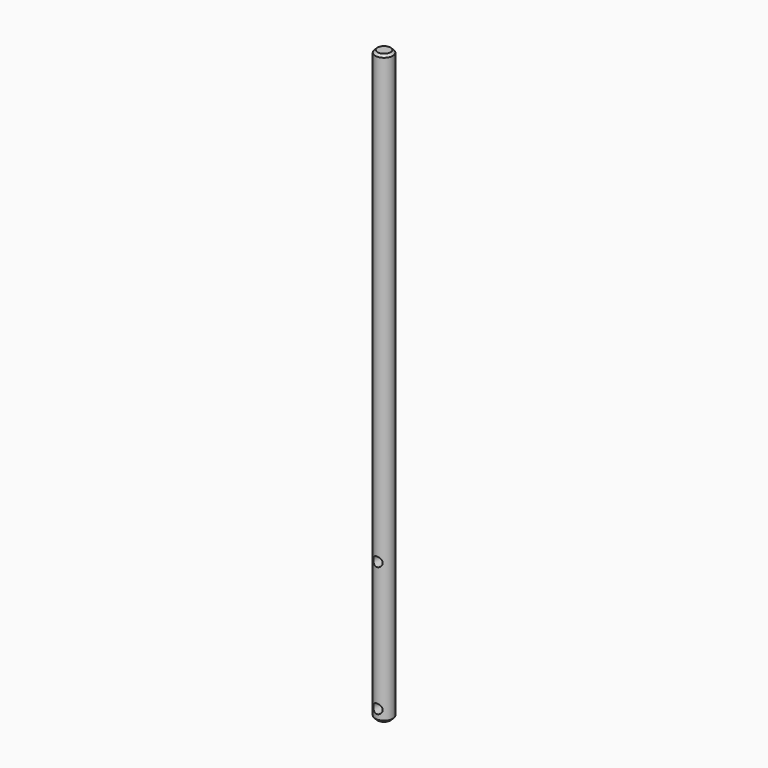
from build123d import *

# Parameters (mm, degrees)
F0_R     = 7.5
F1_DEPTH = 500
F2_SIZE  = 2
F3_R     = 4
F4_DEPTH = 10


with BuildPart() as f1:
    # F0 (on Top) → F1 (new body)
    with BuildSketch(Plane.XY):
        Circle(F0_R)
    extrude(amount=F1_DEPTH)

    # F2
    f2_edges = [f1.edges().sort_by_distance(p)[0] for p in [
        (-7.5, 0, 0),
        (-7.5, 0, 500),
    ]]
    chamfer(f2_edges, length=F2_SIZE)

    # F3 (on Front) → F4 (cut, symmetric)
    with BuildSketch(Plane.XZ):
        with Locations((0, 10)):
            Circle(F3_R)
        with Locations((0, 120)):
            Circle(F3_R)
    extrude(amount=F4_DEPTH, both=True, mode=Mode.SUBTRACT)


solid = f1.part
